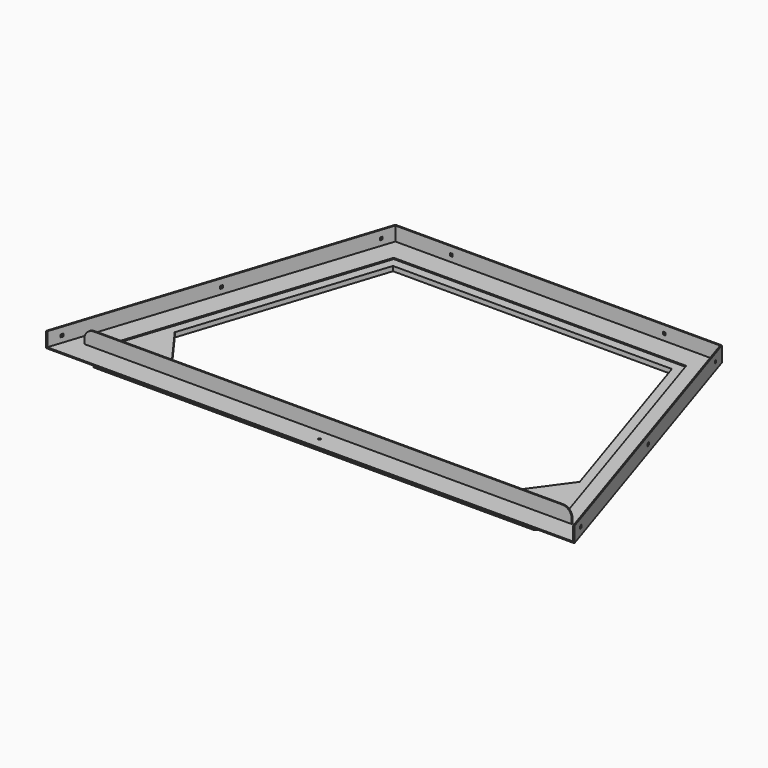
from build123d import *

# Parameters (mm, degrees)
F1_DEPTH        = 3.175
F3_DEPTH        = 38.1
F5_DEPTH        = 38.1
F6_R            = 25.4
F7_W            = 7.366
F7_H            = 7.366
F8_DEPTH        = 25.4
F9_W            = 7.366
F9_H            = 7.366
F10_DEPTH       = 25.4
F12_DEPTH       = 12.7
F13_W           = 7.366
F13_H           = 7.366
F14_DEPTH       = 25.4
F16_D           = 6.35
F16_CSINK_D     = 12.7
F16_CSINK_ANGLE = 90


with BuildPart() as f1:
    # F0 (on Top) → F1 (new body)
    with BuildSketch(Plane.XY):
        Polygon((-442.9003250721, 609.6), (-716.627779595, -232.8464804581), (-713.289387033, -232.8464804581), (-440.5935525457, 606.425), (440.5935525457, 606.425), (713.289387033, -232.8464804581), (716.627779595, -232.8464804581), (442.9003250721, 609.6), align=None)
        Polygon((-440.5935525457, 606.425), (-713.289387033, -232.8464804581), (713.289387033, -232.8464804581), (440.5935525457, 606.425), align=None)
        Polygon((629.2275276451, -169.3464804581), (-629.2275276451, -169.3464804581), (-396.7648745437, 546.1), (396.7648745437, 546.1), align=None, mode=Mode.SUBTRACT)
    extrude(amount=F1_DEPTH)

    # F2 (on face) → F3 (join)
    with BuildSketch(Plane.XY.offset(3.175)):
        Polygon((-442.9003250721, 609.6), (-716.627779595, -232.8464804581), (-713.289387033, -232.8464804581), (-440.5935525457, 606.425), (440.5935525457, 606.425), (713.289387033, -232.8464804581), (716.627779595, -232.8464804581), (442.9003250721, 609.6), align=None)
    extrude(amount=F3_DEPTH)

    # F4 (on face) → F5 (join)
    with BuildSketch(Plane.XY.offset(3.175)):
        Polygon((629.2275276451, -169.3464804581), (-629.2275276451, -169.3464804581), (-660.9775276451, -169.3464804581), (-660.9775276451, -172.4325804581), (660.9775276451, -172.4325804581), (660.9775276451, -169.3464804581), align=None)
    extrude(amount=F5_DEPTH)

    # F6
    f6_edges = [f1.edges().sort_by_distance(p)[0] for p in [
        (660.977528, -170.88953, 41.275),
        (-660.977528, -170.88953, 41.275),
    ]]
    fillet(f6_edges, radius=F6_R)

    # F7 (on face) → F8 (cut)
    with BuildSketch(Plane(origin=(579.7640523335, 188.376759771, 0), x_dir=(-0.3090169944, 0.9510565163, 0), z_dir=(0.9510565163, 0.3090169944, 0))):
        with Locations((404.8003250721, 20.6375)):
            Rectangle(F7_W, F7_H)
        with Locations((0, 20.6375)):
            Rectangle(F7_W, F7_H)
        with Locations((-404.8003250721, 20.6375)):
            Rectangle(F7_W, F7_H)
    extrude(amount=-F8_DEPTH, mode=Mode.SUBTRACT)

    # F9 (on face) → F10 (cut)
    with BuildSketch(Plane(origin=(-579.7640523335, 188.376759771, 0), x_dir=(-0.3090169944, -0.9510565163, 0), z_dir=(-0.9510565163, 0.3090169944, 0))):
        with Locations((-404.8003250721, 20.6375)):
            Rectangle(F9_W, F9_H)
        with Locations((0, 20.6375)):
            Rectangle(F9_W, F9_H)
        with Locations((404.8003250721, 20.6375)):
            Rectangle(F9_W, F9_H)
    extrude(amount=-F10_DEPTH, mode=Mode.SUBTRACT)

    # F13 (on face) → F14 (cut)
    with BuildSketch(Plane(origin=(0, 609.6, 0), x_dir=(-1, 0, 0), z_dir=(0, 1, 0))):
        with Locations((288.9255250721, 20.6375)):
            Rectangle(F13_W, F13_H)
        with Locations((-288.9255250721, 20.6375)):
            Rectangle(F13_W, F13_H)
    extrude(amount=-F14_DEPTH, mode=Mode.SUBTRACT)

    # F16 (through all)
    with Locations(Plane(origin=(0, 0, 0), x_dir=(1, 0, 0), z_dir=(0, 0, -1))):
        with Locations((0, 201.0964804581)):
            CounterSinkHole(F16_D / 2, F16_CSINK_D / 2, counter_sink_angle=F16_CSINK_ANGLE)


with BuildPart() as f12:
    # F11 (on face) → F12 (new body)
    with BuildSketch(Plane(origin=(0, 0, 0), x_dir=(1, 0, 0), z_dir=(0, 0, -1))):
        Polygon((-597.547729205, 220.1464804581), (-667.7516025765, 123.5191384025), (-433.6732349664, -596.9), (433.6732349664, -596.9), (667.7516025765, 123.5191384025), (597.547729205, 220.1464804581), align=None)
        Polygon((396.7648745437, -546.1), (-396.7648745437, -546.1), (-629.2275276451, 169.3464804581), (629.2275276451, 169.3464804581), align=None, mode=Mode.SUBTRACT)
        Polygon((-629.2275276451, 169.3464804581), (-396.7648745437, -546.1), (396.7648745437, -546.1), (629.2275276451, 169.3464804581), align=None)
        Polygon((378.3106943324, -520.7), (-378.3106943324, -520.7), (-549.3264734851, 5.6324480955), (-467.2896269651, 118.5464804581), (467.2896269651, 118.5464804581), (549.3264734851, 5.6324480955), align=None, mode=Mode.SUBTRACT)
    extrude(amount=F12_DEPTH)


solid = Compound([f1.part, f12.part])
